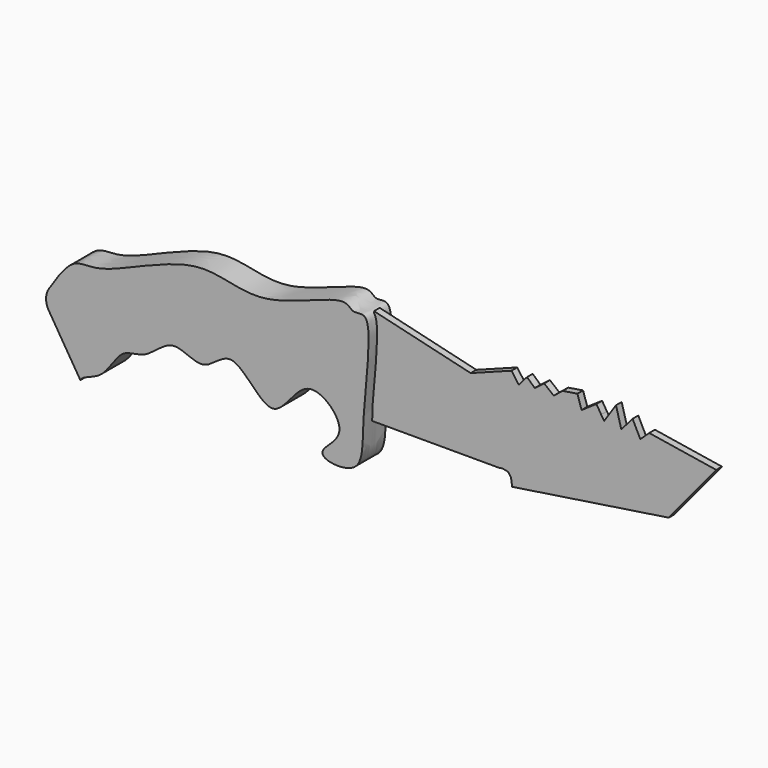
from build123d import *

# Parameters (mm, degrees)
F1_DEPTH = 10
F2_DEPTH = 10
F5_DEPTH = 1.25


with BuildPart() as f1:
    # F0 (on Front) → F1 (new body)
    with BuildSketch(Plane.XZ):
        with BuildLine():
            ThreePointArc((-136.9402502576, 1.1794809733), (-137.8987089845, -2.1691270879), (-136.9466458925, -5.5195591418))
            Line((-136.9466458925, -5.5195591418), (-125.8454620838, -23.4372727573))
            add(Edge.make_bspline(
                [(-136.9402502576, 1.1794809733), (-133.9611629123, 5.967392019), (-128.3665938459, 14.0541421769), (-118.3818414844, 10.8129153282), (-83.8152684574, 30.6936559171), (-63.5709009407, 17.4291739887), (-32.9441342846, 34.0247273531), (-30.4262254549, 27.9684384429), (-22.0889260781, 31.7674040261), (-27.7183977105, -3.009045413), (-25.7569724424, -21.253960582), (-40.4489443834, -20.6797727432), (-41.5851455562, -16.5207616572), (-29.6923307709, -9.7238713563), (-47.4180449091, 7.298960904), (-57.7264279773, -19.4609357054), (-72.2838304967, 6.5651441165), (-82.2212429047, -8.4905234949), (-93.5189884754, 1.4375993374), (-102.5172052564, -9.9019078666), (-112.0692261481, -8.3105688575), (-117.3857395304, -21.2284090576), (-124.9932666302, -21.6419818385), (-125.8454620838, -23.4372727573)],
                knots=[0.0098672884, 0.0098672884, 0.0098672884, 0.0098672884, 0.0525778965, 0.0906533532, 0.1653355717, 0.2266364312, 0.2941643351, 0.3182229331, 0.3430550808, 0.4123821102, 0.4644028558, 0.5039968975, 0.5236998615, 0.5629389697, 0.609795601, 0.660457057, 0.7127010978, 0.7541805813, 0.7951142261, 0.8377000397, 0.8735004722, 0.9171556687, 0.9521615805, 0.9521615805, 0.9521615805, 0.9521615805], degree=3))
        make_face()
    extrude(amount=F1_DEPTH)

    # F0 (on Front) → F2 (join)
    with BuildSketch(Plane.XZ):
        with BuildLine():
            ThreePointArc((-136.9402502576, 1.1794809733), (-137.8987089845, -2.1691270879), (-136.9466458925, -5.5195591418))
            Line((-136.9466458925, -5.5195591418), (-125.8454620838, -23.4372727573))
            add(Edge.make_bspline(
                [(-136.9402502576, 1.1794809733), (-133.9611629123, 5.967392019), (-128.3665938459, 14.0541421769), (-118.3818414844, 10.8129153282), (-83.8152684574, 30.6936559171), (-63.5709009407, 17.4291739887), (-32.9441342846, 34.0247273531), (-30.4262254549, 27.9684384429), (-22.0889260781, 31.7674040261), (-27.7183977105, -3.009045413), (-25.7569724424, -21.253960582), (-40.4489443834, -20.6797727432), (-41.5851455562, -16.5207616572), (-29.6923307709, -9.7238713563), (-47.4180449091, 7.298960904), (-57.7264279773, -19.4609357054), (-72.2838304967, 6.5651441165), (-82.2212429047, -8.4905234949), (-93.5189884754, 1.4375993374), (-102.5172052564, -9.9019078666), (-112.0692261481, -8.3105688575), (-117.3857395304, -21.2284090576), (-124.9932666302, -21.6419818385), (-125.8454620838, -23.4372727573)],
                knots=[0.0098672884, 0.0098672884, 0.0098672884, 0.0098672884, 0.0525778965, 0.0906533532, 0.1653355717, 0.2266364312, 0.2941643351, 0.3182229331, 0.3430550808, 0.4123821102, 0.4644028558, 0.5039968975, 0.5236998615, 0.5629389697, 0.609795601, 0.660457057, 0.7127010978, 0.7541805813, 0.7951142261, 0.8377000397, 0.8735004722, 0.9171556687, 0.9521615805, 0.9521615805, 0.9521615805, 0.9521615805], degree=3))
        make_face()
    extrude(amount=F2_DEPTH)

    # F4 (on offset) → F5 (join, symmetric)
    with BuildSketch(Plane.XZ.offset(5)):
        Polygon((8.201552555, 20.8192858845), (-25.7473662496, 28.9420336485), (-26.3721942902, -5.2151610143), (17.9905053228, -5.2151610143), (19.4484312087, -5.006885156), (21.3229097426, -5.4234368727), (22.3657856804, -6.8495821196), (22.7808412164, -9.588948451), (77.7655914426, -1.2579250615), (94.4276377559, 18.944805488), (70.8924978971, 22.693766281), (67.7683651447, 19.7779089212), (65.0607869029, 25.1930728555), (61.1035488546, 20.6110104918), (59.2290721834, 27.4841040373), (55.0635568798, 21.2358366698), (54.0221817791, 22.9020416737), (52.3559749126, 25.6096236408), (47.1490882337, 22.0689401031), (45.6911548972, 26.6510024667), (40.4842682183, 25.8178990334), (37.3601280153, 23.318592459), (34.0277217329, 26.0261762887), (30.6953117251, 23.5268678516), (27.9877278954, 26.0261762887), (25.0718761235, 22.693766281), (22.5725714117, 26.2344516814), align=None)
    extrude(amount=F5_DEPTH, both=True)


solid = f1.part
